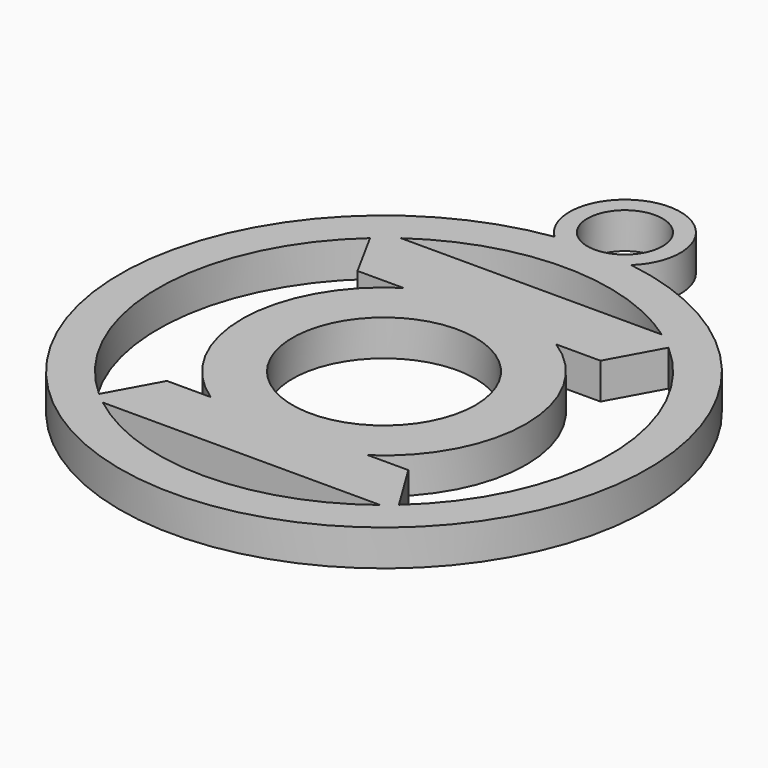
from build123d import *

# Parameters (mm, degrees)
F0_R     = 6.443308
F0_R_2   = 2.648857
F1_DEPTH = 2.54


with BuildPart() as f1:
    # F0 (on Top) → F1 (new body)
    with BuildSketch(Plane.XY):
        with BuildLine():
            ThreePointArc((-2.702412, 18.407954), (0, -18.605262), (2.702412, 18.407954))
            ThreePointArc((2.702412, 18.407954), (0, 25.145962), (-2.702412, 18.407954))
        make_face()
        with BuildLine():
            ThreePointArc((-10.576644, -11.894062), (-15.916442, 0.031476), (-10.529518, 11.935801))
            Line((-10.529518, 11.935801), (-8.627587, 8.447575))
            Line((-8.627587, 8.447575), (-5.382811, 8.447575))
            ThreePointArc((-5.382811, 8.447575), (-10.016346, 0.09488), (-5.54187, -8.344091))
            Line((-5.54187, -8.344091), (-8.627587, -8.344091))
            Line((-8.627587, -8.344091), (-10.576644, -11.894062))
        make_face(mode=Mode.SUBTRACT)
        with BuildLine():
            ThreePointArc((9.776256, -12.560212), (0, -15.916473), (-9.776256, -12.560212))
            Line((-9.776256, -12.560212), (9.776256, -12.560212))
        make_face(mode=Mode.SUBTRACT)
        Circle(F0_R, mode=Mode.SUBTRACT)
        with BuildLine():
            Line((5.382811, 8.447575), (8.504451, 8.447575))
            Line((8.504451, 8.447575), (10.455956, 12.000295))
            ThreePointArc((10.455956, 12.000295), (15.916287, 0.076826), (10.571314, -11.898799))
            Line((10.571314, -11.898799), (8.390993, -8.344091))
            Line((8.390993, -8.344091), (5.54187, -8.344091))
            ThreePointArc((5.54187, -8.344091), (10.016346, 0.09488), (5.382811, 8.447575))
        make_face(mode=Mode.SUBTRACT)
        with BuildLine():
            ThreePointArc((-9.197748, 12.989825), (0, 15.916473), (9.197748, 12.989825))
            Line((9.197748, 12.989825), (-9.197748, 12.989825))
        make_face(mode=Mode.SUBTRACT)
        with Locations((0, 21.23503)):
            Circle(F0_R_2, mode=Mode.SUBTRACT)
    extrude(amount=F1_DEPTH)


solid = f1.part
